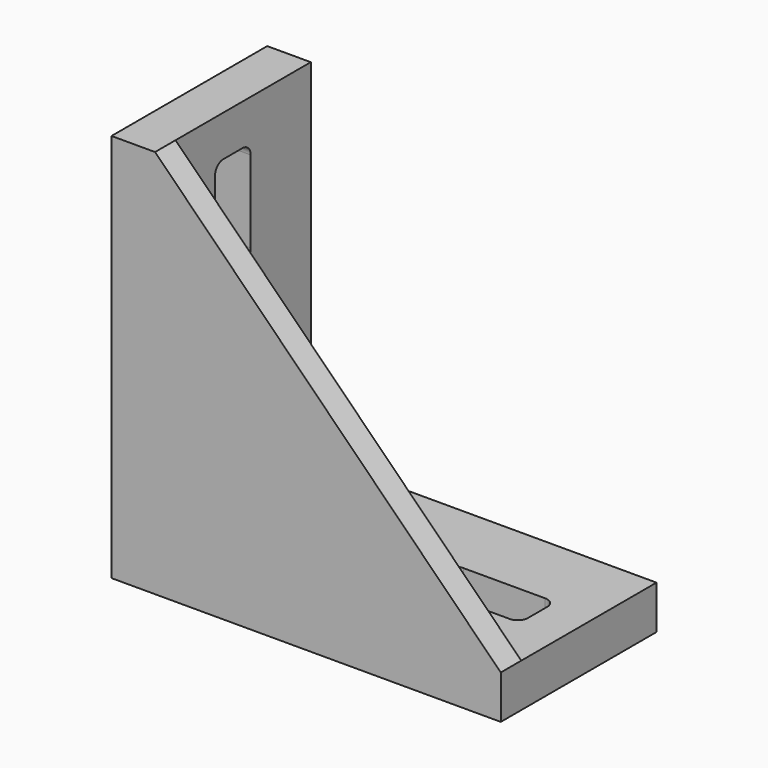
from build123d import *

# Parameters (mm, degrees)
F0_W     = 76
F0_H     = 38
F1_DEPTH = 76
F3_DEPTH = 38.001
F4_DEPTH = 33
F6_DEPTH = 76.001
F8_DEPTH = 76.001


with BuildPart() as f1:
    # F0 (on Top) → F1 (new body)
    with BuildSketch(Plane.XY):
        Rectangle(F0_W, F0_H)
    extrude(amount=F1_DEPTH)

    # F2 (on face) → F3 (cut, through all)
    with BuildSketch(Plane(origin=(0, 19, 0), x_dir=(-1, 0, 0), z_dir=(0, 1, 0))):
        Polygon((-38, 8.5), (29.5, 76), (-38, 76), align=None)
    extrude(amount=-F3_DEPTH, mode=Mode.SUBTRACT)

    # F2 (on face) → F4 (cut)
    with BuildSketch(Plane(origin=(0, 19, 0), x_dir=(-1, 0, 0), z_dir=(0, 1, 0))):
        Polygon((29.5, 8.5), (29.5, 76), (-38, 8.5), align=None)
    extrude(amount=-F4_DEPTH, mode=Mode.SUBTRACT)

    # F5 (on face) → F6 (cut, through all)
    with BuildSketch(Plane(origin=(-38, 0, 0), x_dir=(0, -1, 0), z_dir=(-1, 0, 0))):
        with BuildLine():
            Line((2.35, 68), (-2.35, 68))
            ThreePointArc((-2.35, 68), (-3.764214, 67.414214), (-4.35, 66))
            Line((-4.35, 66), (-4.35, 50))
            ThreePointArc((-4.35, 50), (-3.764214, 48.585786), (-2.35, 48))
            Line((-2.35, 48), (2.35, 48))
            ThreePointArc((2.35, 48), (3.764214, 48.585786), (4.35, 50))
            Line((4.35, 50), (4.35, 66))
            ThreePointArc((4.35, 66), (3.764214, 67.414214), (2.35, 68))
        make_face()
        with BuildLine():
            Line((2.35, 35), (-2.35, 35))
            ThreePointArc((-2.35, 35), (-3.764214, 34.414214), (-4.35, 33))
            Line((-4.35, 33), (-4.35, 14))
            ThreePointArc((-4.35, 14), (-3.764214, 12.585786), (-2.35, 12))
            Line((-2.35, 12), (2.35, 12))
            ThreePointArc((2.35, 12), (3.764214, 12.585786), (4.35, 14))
            Line((4.35, 14), (4.35, 33))
            ThreePointArc((4.35, 33), (3.764214, 34.414214), (2.35, 35))
        make_face()
    extrude(amount=-F6_DEPTH, mode=Mode.SUBTRACT)

    # F7 (on face) → F8 (cut, through all)
    with BuildSketch(Plane(origin=(0, 0, 0), x_dir=(1, 0, 0), z_dir=(0, 0, -1))):
        with BuildLine():
            Line((-3, -2.35), (-3, 2.35))
            ThreePointArc((-3, 2.35), (-3.585786, 3.764214), (-5, 4.35))
            Line((-5, 4.35), (-24, 4.35))
            ThreePointArc((-24, 4.35), (-25.414214, 3.764214), (-26, 2.35))
            Line((-26, 2.35), (-26, -2.35))
            ThreePointArc((-26, -2.35), (-25.414214, -3.764214), (-24, -4.35))
            Line((-24, -4.35), (-5, -4.35))
            ThreePointArc((-5, -4.35), (-3.585786, -3.764214), (-3, -2.35))
        make_face()
        with BuildLine():
            Line((30, -2.35), (30, 2.35))
            ThreePointArc((30, 2.35), (29.414214, 3.764214), (28, 4.35))
            Line((28, 4.35), (12, 4.35))
            ThreePointArc((12, 4.35), (10.585786, 3.764214), (10, 2.35))
            Line((10, 2.35), (10, -2.35))
            ThreePointArc((10, -2.35), (10.585786, -3.764214), (12, -4.35))
            Line((12, -4.35), (28, -4.35))
            ThreePointArc((28, -4.35), (29.414214, -3.764214), (30, -2.35))
        make_face()
    extrude(amount=-F8_DEPTH, mode=Mode.SUBTRACT)


solid = f1.part
